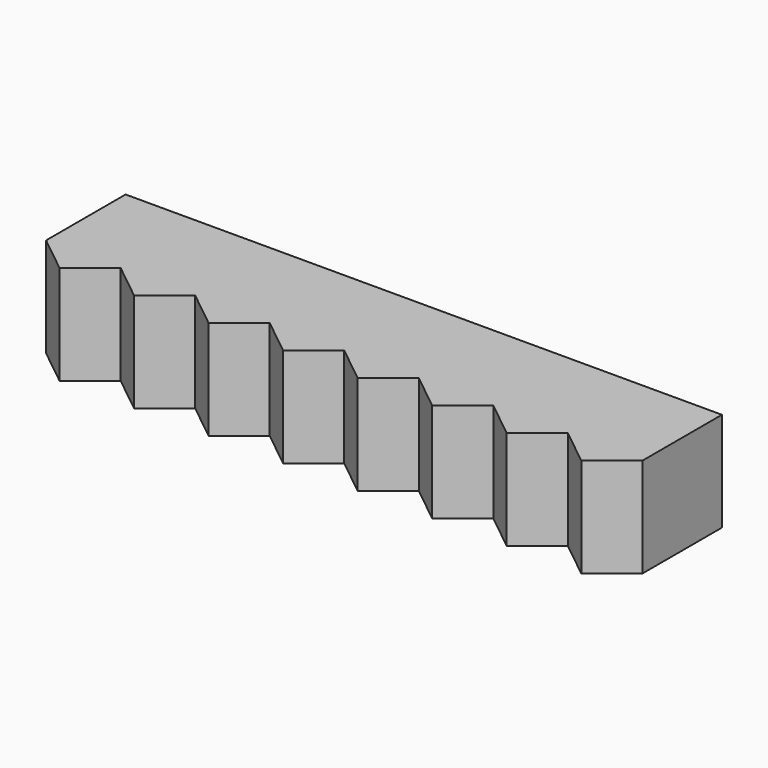
from build123d import *

# Parameters (mm, degrees)
F1_DEPTH = 25.4


with BuildPart() as f1:
    # F0 (on Top) → F1 (new body)
    with BuildSketch(Plane.XY):
        Polygon((76.2, -12.7), (76.2, 12.7), (-76.2, 12.7), (-76.2, -12.7), (-57.15, -12.7), (-38.1, -12.7), (-19.05, -12.7), (0, -12.7), (19.05, -12.7), (38.1, -12.7), (57.15, -12.7), align=None)
        Polygon((66.675, -20.32), (76.2, -12.7), (57.15, -12.7), align=None)
        Polygon((-57.15, -12.7), (-76.2, -12.7), (-66.675, -20.32), align=None)
        Polygon((47.625, -20.32), (57.15, -12.7), (38.1, -12.7), align=None)
        Polygon((-38.1, -12.7), (-57.15, -12.7), (-47.625, -20.32), align=None)
        Polygon((28.575, -20.32), (38.1, -12.7), (19.05, -12.7), align=None)
        Polygon((-19.05, -12.7), (-38.1, -12.7), (-28.575, -20.32), align=None)
        Polygon((9.525, -20.32), (19.05, -12.7), (0, -12.7), align=None)
        Polygon((0, -12.7), (-19.05, -12.7), (-9.525, -20.32), align=None)
    extrude(amount=F1_DEPTH)


solid = f1.part
